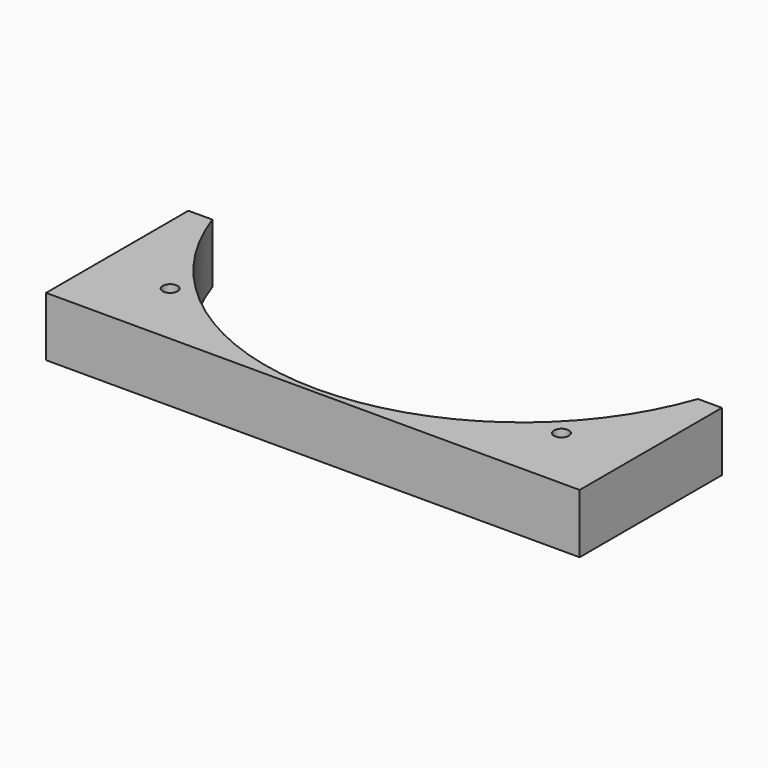
from build123d import *

# Parameters (mm, degrees)
CYLINDER1525_R               = 1.5
CYLINDER1525_DEPTH           = 50
CYLINDER1525_PLACEMENT_ANGLE = 45
CYLINDER1508_R               = 1.5
CYLINDER1508_DEPTH           = 50
CYLINDER1508_PLACEMENT_ANGLE = 135
CYLINDER1511_R               = 1.5
CYLINDER1511_DEPTH           = 50
CYLINDER1521_R               = 1.5
CYLINDER1521_DEPTH           = 50
CYLINDER1521_PLACEMENT_ANGLE = 225
CYLINDER1514_R               = 1.5
CYLINDER1514_DEPTH           = 50
CYLINDER1505_R               = 1.5
CYLINDER1505_DEPTH           = 50
CYLINDER1505_PLACEMENT_ANGLE = 45
CYLINDER1519_R               = 1.5
CYLINDER1519_DEPTH           = 50
CYLINDER1516_R               = 52
CYLINDER1516_DEPTH           = 16
BOX524_W                     = 108
BOX524_H                     = 36
BOX524_DEPTH                 = 12


with BuildPart() as obj1:
    # Cylinder1525 → Cylinder1525 (new body)
    with BuildSketch(Plane.XY):
        Circle(CYLINDER1525_R)
    extrude(amount=CYLINDER1525_DEPTH)


with BuildPart() as obj1_1:
    # Cylinder1525 placement: moved
    add(obj1.part.moved(Location((39.59798, -39.59798, 2))).rotate(Axis((39.59798, -39.59798, 2), (0, 0, 1)), CYLINDER1525_PLACEMENT_ANGLE))


with BuildPart() as obj2:
    # Cylinder1508 → Cylinder1508 (new body)
    with BuildSketch(Plane.XY):
        Circle(CYLINDER1508_R)
    extrude(amount=CYLINDER1508_DEPTH)


with BuildPart() as obj2_1:
    # Cylinder1508 placement: moved
    add(obj2.part.moved(Location((39.59798, 39.59798, 2))).rotate(Axis((39.59798, 39.59798, 2), (0, 0, 1)), CYLINDER1508_PLACEMENT_ANGLE))


with BuildPart() as obj3:
    # Cylinder1511 → Cylinder1511 (new body)
    with BuildSketch(Plane(origin=(0, 56, 2), x_dir=(-1, 0, 0), z_dir=(0, 0, 1))):
        Circle(CYLINDER1511_R)
    extrude(amount=CYLINDER1511_DEPTH)


with BuildPart() as obj4:
    # Cylinder1521 → Cylinder1521 (new body)
    with BuildSketch(Plane.XY):
        Circle(CYLINDER1521_R)
    extrude(amount=CYLINDER1521_DEPTH)


with BuildPart() as obj4_1:
    # Cylinder1521 placement: moved
    add(obj4.part.moved(Location((-39.59798, 39.59798, 2))).rotate(Axis((-39.59798, 39.59798, 2), (0, 0, 1)), CYLINDER1521_PLACEMENT_ANGLE))


with BuildPart() as obj5:
    # Cylinder1514 → Cylinder1514 (new body)
    with BuildSketch(Plane(origin=(-56, 0, 2), x_dir=(0, -1, 0), z_dir=(0, 0, 1))):
        Circle(CYLINDER1514_R)
    extrude(amount=CYLINDER1514_DEPTH)


with BuildPart() as obj6:
    # Cylinder1505 → Cylinder1505 (new body)
    with BuildSketch(Plane.XY):
        Circle(CYLINDER1505_R)
    extrude(amount=CYLINDER1505_DEPTH)


with BuildPart() as obj6_1:
    # Cylinder1505 placement: moved
    add(obj6.part.moved(Location((-39.59798, -39.59798, 2))).rotate(Axis((-39.59798, -39.59798, 2), (0, 0, -1)), CYLINDER1505_PLACEMENT_ANGLE))


with BuildPart() as compound908:
    # Cylinder1519 → Cylinder1519 (new body)
    with BuildSketch(Plane(origin=(0, -56, 2), x_dir=(1, 0, 0), z_dir=(0, 0, 1))):
        Circle(CYLINDER1519_R)
    extrude(amount=CYLINDER1519_DEPTH)

    # Compound908: union obj1, obj2, obj3, obj4, obj5, obj6
    add(obj1_1.part)
    add(obj2_1.part)
    add(obj3.part)
    add(obj4_1.part)
    add(obj5.part)
    add(obj6_1.part)


with BuildPart() as obj7:
    # Cylinder1516 → Cylinder1516 (new body)
    with BuildSketch(Plane.XY.offset(20)):
        Circle(CYLINDER1516_R)
    extrude(amount=CYLINDER1516_DEPTH)


with BuildPart() as cut559:
    # Box524 → Box524 (new body)
    with BuildSketch(Plane(origin=(-54, -53, 20), x_dir=(1, 0, 0), z_dir=(0, 0, 1))):
        with Locations((54, 18)):
            Rectangle(BOX524_W, BOX524_H)
    extrude(amount=BOX524_DEPTH)

    # Cut550: cut obj7
    add(obj7.part, mode=Mode.SUBTRACT)


with BuildPart() as cut559_1:
    # Cut550 placement: moved
    add(cut559.part.moved(Location((0, 0, -10))))

    # Cut559: cut Compound908
    add(compound908.part, mode=Mode.SUBTRACT)


with BuildPart() as cut559_2:
    # Cut559 placement: moved
    add(cut559_1.part.moved(Location((0, 0, -4))))


solid = cut559_2.part
